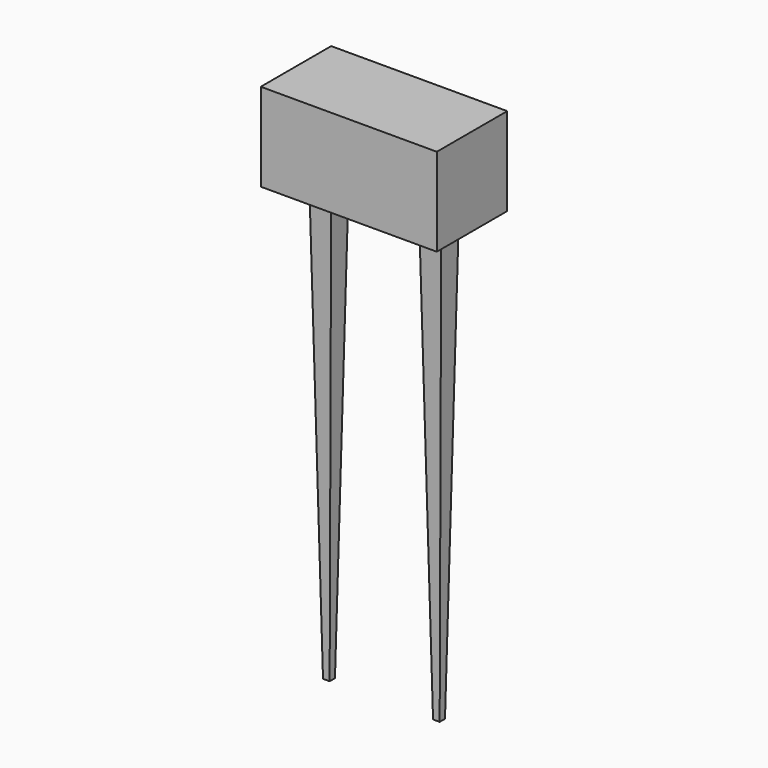
from build123d import *

# Parameters (mm, degrees)
F0_W     = 50.8
F0_H     = 25.4
F1_DEPTH = 25.4
F2_W     = 6.35
F2_H     = 6.35
F3_DEPTH = 127
F3_TAPER = 1


with BuildPart() as f1:
    # F0 (on Top) → F1 (new body)
    with BuildSketch(Plane.XY):
        Rectangle(F0_W, F0_H)
    extrude(amount=-F1_DEPTH)


with BuildPart() as f3:
    # F2 (on face) → F3 (new body)
    with BuildSketch(Plane(origin=(0, 0, -25.4), x_dir=(1, 0, 0), z_dir=(0, 0, -1))):
        with Locations((-15.875, 0)):
            Rectangle(F2_W, F2_H)
    extrude(amount=F3_DEPTH, taper=F3_TAPER)


with BuildPart() as f4_1:
    # F4: instance of F3
    add(f3.part.mirror(Plane.YZ))


solid = Compound([f1.part, f3.part, f4_1.part])
